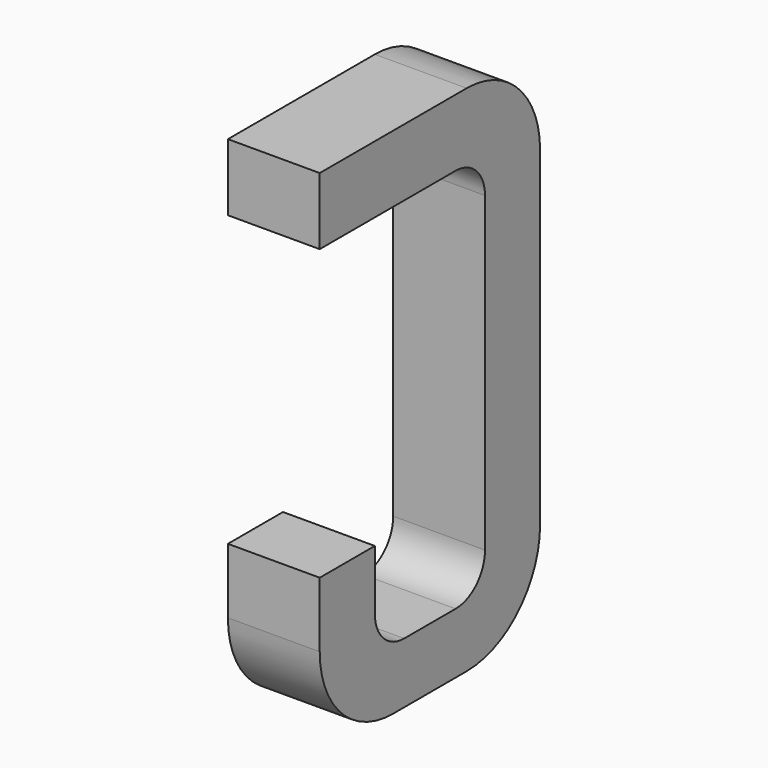
from build123d import *

# Parameters (mm, degrees)
BOX042_W     = 0.5
BOX042_H     = 1.5
BOX042_DEPTH = 2.795
FILLET066_R  = 0.5
FILLET075_R  = 0.5
FILLET062_R  = 0.5
BOX044_W     = 0.75
BOX044_H     = 2.1
BOX044_DEPTH = 1
FILLET058_R  = 0.2
FILLET067_R  = 0.2
FILLET057_R  = 0.2
FILLET059_R  = 0.2
BOX047_W     = 1
BOX047_H     = 1.575
BOX047_DEPTH = 3


with BuildPart() as part:
    # Box042 → Box042 (join)
    with BuildSketch(Plane(origin=(-0.25, 11.125, 0), x_dir=(1, 0, 0), z_dir=(0, 0, 1))):
        with Locations((0.25, 0.75)):
            Rectangle(BOX042_W, BOX042_H)
    extrude(amount=BOX042_DEPTH)

    # Fillet066
    fillet066_edges = [part.edges().sort_by_distance(p)[0] for p in [
        (0, 12.625, 0),
    ]]
    fillet(fillet066_edges, radius=FILLET066_R)

    # Fillet075
    fillet075_edges = [part.edges().sort_by_distance(p)[0] for p in [
        (0, 12.625, 2.795),
    ]]
    fillet(fillet075_edges, radius=FILLET075_R)

    # Fillet062
    fillet062_edges = [part.edges().sort_by_distance(p)[0] for p in [
        (0, 11.125, 0),
    ]]
    fillet(fillet062_edges, radius=FILLET062_R)

    # Box044 → Box044 (cut)
    with BuildSketch(Plane(origin=(-0.5, 11.5, 0.33), x_dir=(0, 1, 0), z_dir=(1, 0, 0))):
        with Locations((0.375, 1.05)):
            Rectangle(BOX044_W, BOX044_H)
    extrude(amount=BOX044_DEPTH, mode=Mode.SUBTRACT)

    # Fillet058
    fillet058_edges = [part.edges().sort_by_distance(p)[0] for p in [
        (0, 11.5, 0.33),
    ]]
    fillet(fillet058_edges, radius=FILLET058_R)

    # Fillet067
    fillet067_edges = [part.edges().sort_by_distance(p)[0] for p in [
        (0, 12.25, 0.33),
    ]]
    fillet(fillet067_edges, radius=FILLET067_R)

    # Fillet057
    fillet057_edges = [part.edges().sort_by_distance(p)[0] for p in [
        (0, 11.5, 2.43),
    ]]
    fillet(fillet057_edges, radius=FILLET057_R)

    # Fillet059
    fillet059_edges = [part.edges().sort_by_distance(p)[0] for p in [
        (0, 12.25, 2.43),
    ]]
    fillet(fillet059_edges, radius=FILLET059_R)

    # Box047 → Box047 (cut)
    with BuildSketch(Plane(origin=(-1, 11, 0.855), x_dir=(0, 1, 0), z_dir=(1, 0, 0))):
        with Locations((0.5, 0.7875)):
            Rectangle(BOX047_W, BOX047_H)
    extrude(amount=BOX047_DEPTH, mode=Mode.SUBTRACT)


with BuildPart() as part_1:
    # Body009 placement: moved
    add(part.part.moved(Location((-5.08, 0, 0))))


solid = part_1.part
